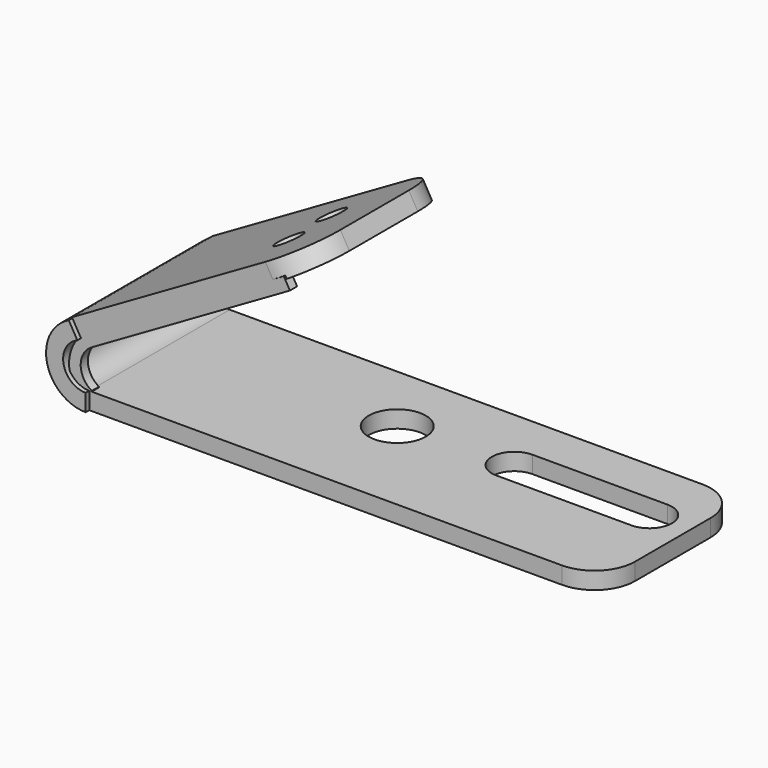
from build123d import *

# Parameters (mm, degrees)
F0_R      = 80.4673318477
F1_DEPTH  = 48.26
F4_DEPTH  = 25.4
F6_DEPTH  = 25.4
F8_DEPTH  = 48.26
F9_DEPTH  = 2.54
F11_DEPTH = 482.6
F12_R     = 38.1
F13_DEPTH = 127


with BuildPart() as f1:
    # F0 (on Top) → F1 (new body)
    with BuildSketch(Plane.XY):
        with BuildLine():
            Line((1010.2228706353, 495.3), (1010.2228706353, 0))
            Line((1010.2228706353, 0), (2343.7228706353, 0))
            ThreePointArc((2343.7228706353, 0), (2424.5451757249, 33.4776949104), (2458.0228706353, 114.3))
            Line((2458.0228706353, 114.3), (2458.0228706353, 381))
            ThreePointArc((2458.0228706353, 381), (2424.5451757249, 461.8223050896), (2343.7228706353, 495.3))
            Line((2343.7228706353, 495.3), (1010.2228706353, 495.3))
        make_face()
        with Locations((1645.2228706353, 291.9926941395)):
            Circle(F0_R, mode=Mode.SUBTRACT)
        with BuildLine():
            ThreePointArc((1962.7228706353, 244.6997875276), (1899.2228706353, 308.1997875276), (1962.7228706353, 371.6997875276))
            Line((1962.7228706353, 371.6997875276), (2343.7228706353, 371.6997875276))
            ThreePointArc((2343.7228706353, 371.6997875276), (2407.2228706353, 308.1997875276), (2343.7228706353, 244.6997875276))
            Line((2343.7228706353, 244.6997875276), (1962.7228706353, 244.6997875276))
        make_face(mode=Mode.SUBTRACT)
    extrude(amount=F1_DEPTH)

    # F3 (on face) → F4 (join)
    with BuildSketch(Plane.XZ):
        Polygon((1008.9916278534, 193.5739982539), (1017.166601884, 158.4598601468), (1576.1663705805, 481.1985270807), (1558.9177592565, 511.0739982539), align=None)
        with BuildLine():
            ThreePointArc((1017.166601884, 50.3464564681), (985.9569505255, 104.4031583075), (1017.166601884, 158.4598601468))
            Line((1017.166601884, 158.4598601468), (1008.9916278534, 193.5739982539))
            ThreePointArc((1008.9916278534, 193.5739982539), (953.1116278534, 96.7869991269), (1008.9916278534, 0))
            Line((1008.9916278534, 0), (1017.166601884, 50.3464564681))
        make_face()
    extrude(amount=-F4_DEPTH)



with BuildPart() as f6:
    # F5 (on face) → F6 (new body)
    with BuildSketch(Plane(origin=(0, 495.3, 0), x_dir=(-1, 0, 0), z_dir=(0, 1, 0))):
        with BuildLine():
            Line((-962.622620171, 212.8763377291), (-986.752620171, 171.0819517425))
            ThreePointArc((-986.752620171, 171.0819517425), (-947.7007055922, 99.9659962012), (-1010.2228706353, 48.26))
            Line((-1010.2228706353, 48.26), (-1010.2228706353, 0))
            ThreePointArc((-1010.2228706353, 0), (-901.1562407602, 87.3721372872), (-962.622620171, 212.8763377291))
        make_face()
        Polygon((-1512.5487515741, 530.3763377291), (-1536.6787515741, 488.5819517425), (-986.752620171, 171.0819517425), (-962.622620171, 212.8763377291), align=None)
    extrude(amount=-F6_DEPTH)


with BuildPart() as f1_1:
    add(f1.part)

    add(f6.part)  # F8 merges F6
    # F7 (on face) → F8 (join)
    with BuildSketch(Plane(origin=(148.4774968738, 0, -257.170568366), x_dir=(0.8660254038, 0, 0.5), z_dir=(-0.5, 0, 0.8660254038))):
        with BuildLine():
            Line((1569.96836326, 495.3), (940.0938121902, 495.3))
            Line((940.0938121902, 495.3), (940.0938121902, 0))
            Line((940.0938121902, 0), (1569.96836326, 0))
            ThreePointArc((1569.96836326, 0), (1659.7709244707, 37.1974387893), (1696.96836326, 127))
            Line((1696.96836326, 127), (1696.96836326, 368.3))
            ThreePointArc((1696.96836326, 368.3), (1659.7709244707, 458.1025612107), (1569.96836326, 495.3))
        make_face()
    extrude(amount=-F8_DEPTH)

    # F7 (on face) → F9 (join)
    with BuildSketch(Plane(origin=(148.4774968738, 0, -257.170568366), x_dir=(0.8660254038, 0, 0.5), z_dir=(-0.5, 0, 0.8660254038))):
        with BuildLine():
            Line((1569.96836326, 495.3), (940.0938121902, 495.3))
            Line((940.0938121902, 495.3), (940.0938121902, 0))
            Line((940.0938121902, 0), (1569.96836326, 0))
            ThreePointArc((1569.96836326, 0), (1659.7709244707, 37.1974387893), (1696.96836326, 127))
            Line((1696.96836326, 127), (1696.96836326, 368.3))
            ThreePointArc((1696.96836326, 368.3), (1659.7709244707, 458.1025612107), (1569.96836326, 495.3))
        make_face()
    extrude(amount=F9_DEPTH)

    # F10 (on face) → F11 (join)
    with BuildSketch(Plane.XZ.offset(-469.9)):
        with BuildLine():
            Line((986.752620171, 171.0819517425), (962.622620171, 212.8763377291))
            ThreePointArc((962.622620171, 212.8763377291), (901.1562407602, 87.3721372872), (1010.2228706353, 0))
            Line((1010.2228706353, 0), (1010.2228706353, 48.26))
            ThreePointArc((1010.2228706353, 48.26), (947.7007055922, 99.9659962012), (986.752620171, 171.0819517425))
        make_face()
    extrude(amount=F11_DEPTH)

    # F12 (on face) → F13 (cut, symmetric)
    with BuildSketch(Plane(origin=(147.2074968738, 0, -254.9708638404), x_dir=(0.8660254038, 0, 0.5), z_dir=(-0.5, 0, 0.8660254038))):
        with Locations((1468.36836326, 342.9)):
            Circle(F12_R)
        with Locations((1468.36836326, 192.6162540913)):
            Circle(F12_R)
    extrude(amount=F13_DEPTH, both=True, mode=Mode.SUBTRACT)


solid = f1_1.part
